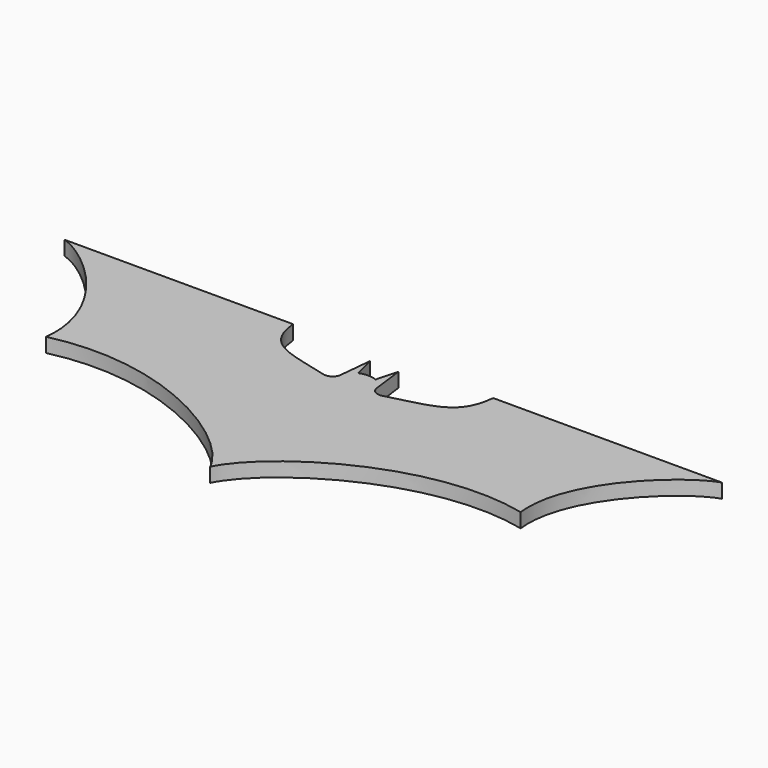
from build123d import *

# Parameters (mm, degrees)
F1_DEPTH = 3.175


with BuildPart() as f1:
    # F0 (on Top) → F1 (new body)
    with BuildSketch(Plane.XY):
        with BuildLine():
            Line((-22.225, 0), (-73.025, 0))
            add(Edge.make_bspline(
                [(-73.025, 0), (-66.544966, -1.983276), (-50.957656, -15.749979), (-52.705, -30.48)],
                knots=[0, 0, 0, 0, 36.632401, 36.632401, 36.632401, 36.632401], degree=3))
            add(Edge.make_bspline(
                [(-52.705, -30.48), (-29.043146, -24.914946), (-4.748764, -40.86059), (0, -50.8)],
                knots=[0, 0, 0, 0, 56.486453, 56.486453, 56.486453, 56.486453], degree=3))
            add(Edge.make_bspline(
                [(52.705, -30.48), (29.043146, -24.914946), (4.748764, -40.86059), (0, -50.8)],
                knots=[0, 0, 0, 0, 56.486453, 56.486453, 56.486453, 56.486453], degree=3))
            add(Edge.make_bspline(
                [(73.025, 0), (66.544966, -1.983276), (50.957656, -15.749979), (52.705, -30.48)],
                knots=[0, 0, 0, 0, 36.632401, 36.632401, 36.632401, 36.632401], degree=3))
            Line((73.025, 0), (22.225, 0))
            add(Edge.make_bspline(
                [(22.225, 0), (21.361192, -8.558341), (16.288532, -8.829113), (6.591726, -11.364783)],
                knots=[0, 0, 0, 0, 20.034352, 20.034352, 20.034352, 20.034352], degree=3))
            ThreePointArc((6.591726, -11.364783), (5.058404, -11.145817), (4.141238, -9.897687))
            Line((4.141238, -9.897687), (3.206694, -2.54))
            Line((3.206694, -2.54), (1.932969, -7.300782))
            ThreePointArc((1.932969, -7.300782), (0, -6.940186), (-1.932969, -7.300782))
            Line((-1.932969, -7.300782), (-3.143306, -2.54))
            Line((-3.143306, -2.54), (-3.879292, -9.920193))
            ThreePointArc((-3.879292, -9.920193), (-4.788833, -11.20128), (-6.343227, -11.43))
            add(Edge.make_bspline(
                [(-22.225, 0), (-21.353843, -8.631154), (-16.201913, -8.83312), (-6.343227, -11.43)],
                knots=[0, 0, 0, 0, 20.2048, 20.2048, 20.2048, 20.2048], degree=3))
        make_face()
    extrude(amount=F1_DEPTH)


solid = f1.part
